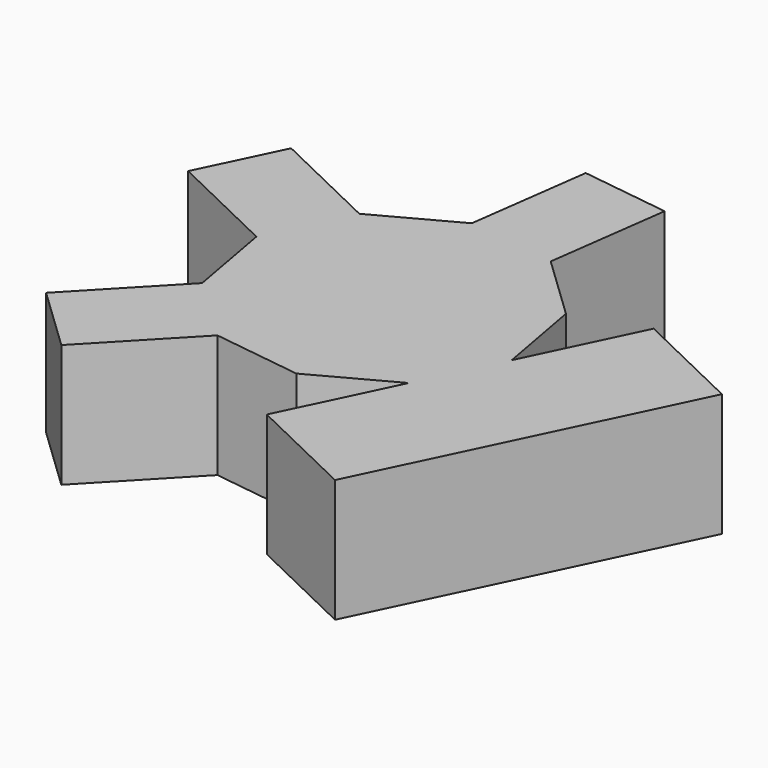
from build123d import *

# Parameters (mm, degrees)
F1_DEPTH = 25.4
F2_DEPTH = 25.4
F3_DEPTH = 25.4
F4_DEPTH = 25.4
F5_DEPTH = 25.4
F6_DEPTH = 25.4
F7_DEPTH = 25.4
F8_T     = -2.54


with BuildPart() as f1:
    # F0 (on Top) → F1 (new body)
    with BuildSketch(Plane.XY):
        Polygon((-27.3028922139, 0.6597405798), (-19.3204942288, 17.2683493668), (-22.6248939091, 35.3969319419), (-35.9539228893, 48.1209859294), (-54.216345136, 50.5803551806), (-70.4365360679, 41.8356442326), (-78.418934053, 25.2270354456), (-75.1145343727, 7.0984528704), (-61.7855053925, -5.625601117), (-43.5230831457, -8.0849703683), align=None)
    extrude(amount=F1_DEPTH)

    # F2 (add): a face of the model
    f2_faces = [f1.faces().sort_by_distance(p)[0] for p in [
        (-23.3116932213, 8.9640449733, 12.7),
    ]]
    extrude(f2_faces, amount=F2_DEPTH)

    # F3 (add): a face of the model
    f3_faces = [f1.faces().sort_by_distance(p)[0] for p in [
        (-74.4277350605, 33.5313398391, 12.7),
    ]]
    extrude(f3_faces, amount=F3_DEPTH)

    # F4 (add): a face of the model
    f4_faces = [f1.faces().sort_by_distance(p)[0] for p in [
        (-68.4500198826, 0.7364258767, 12.7),
    ]]
    extrude(f4_faces, amount=F4_DEPTH)

    # F5 (add): a face of the model
    f5_faces = [f1.faces().sort_by_distance(p)[0] for p in [
        (-45.0851340127, 49.350670555, 12.7),
    ]]
    extrude(f5_faces, amount=F5_DEPTH)

    # F6 (add): a face of the model
    f6_faces = [f1.faces().sort_by_distance(p)[0] for p in [
        (-7.8739129687, 11.7669152395, 12.7),
    ]]
    extrude(f6_faces, amount=F6_DEPTH)

    # F7 (add): a face of the model
    f7_faces = [f1.faces().sort_by_distance(p)[0] for p in [
        (-15.8563109538, -4.8416935475, 12.7),
    ]]
    extrude(f7_faces, amount=F7_DEPTH)

    # F8
    f8_openings = [f1.faces().sort_by_distance(p)[0] for p in [
        (-42.455515, 18.164912, 0),
    ]]
    offset(amount=F8_T, openings=f8_openings, kind=Kind.INTERSECTION)


solid = f1.part
